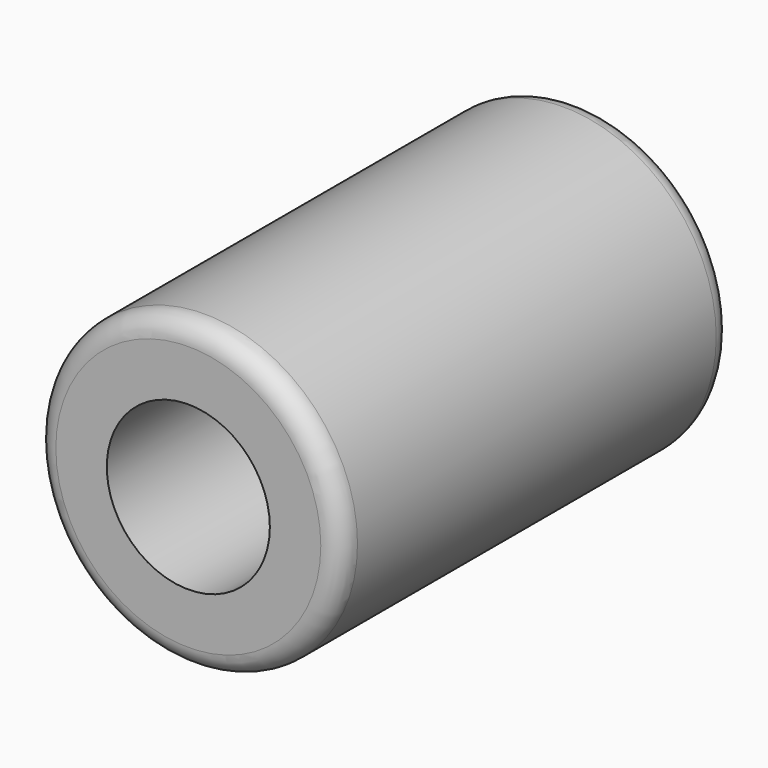
from build123d import *

# Parameters (mm, degrees)
F0_R     = 7.5
F0_R_2   = 4
F1_DEPTH = 24
F2_R     = 1


with BuildPart() as f1:
    # F0 (on Front) → F1 (new body)
    with BuildSketch(Plane.XZ):
        with Locations((15, 15)):
            Circle(F0_R)
        with Locations((15, 15)):
            Circle(F0_R_2, mode=Mode.SUBTRACT)
    extrude(amount=F1_DEPTH)

    # F2
    f2_edges = [f1.edges().sort_by_distance(p)[0] for p in [
        (7.5, -24, 15),
        (7.5, 0, 15),
    ]]
    fillet(f2_edges, radius=F2_R)


solid = f1.part
